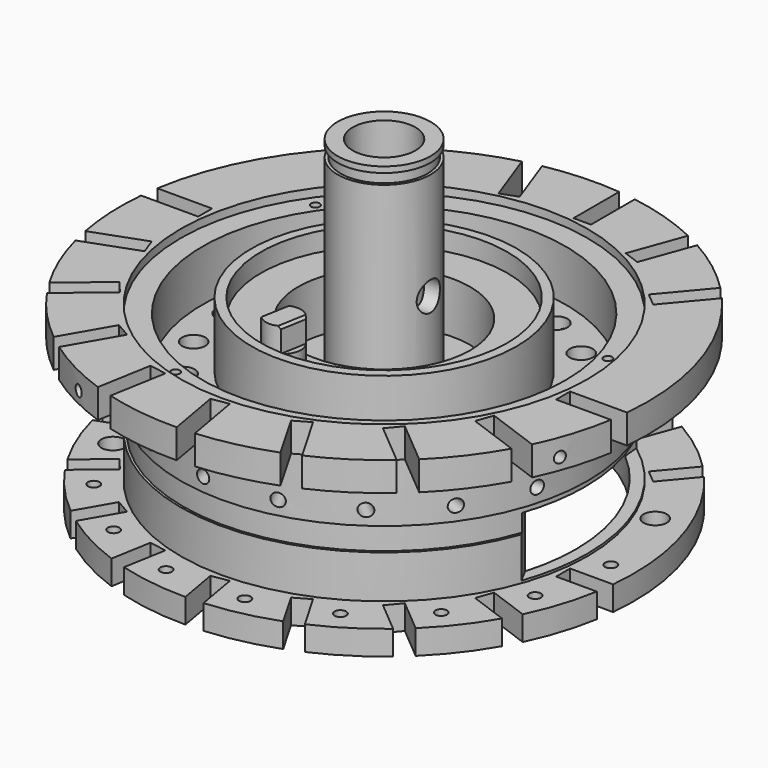
from build123d import *

# Parameters (mm, degrees)
F2_R        = 1
F3_DEPTH    = 16
F4_COUNT    = 10
F4_ANGLE    = 180
F5_COUNT    = 2
F5_ANGLE    = 50
F6_COUNT    = 5
F6_ANGLE    = 80
F7_ANGLE    = 20
F10_W       = 10
F10_H       = 0.55
F12_COUNT   = 10
F12_ANGLE   = 180
F13_COUNT   = 2
F13_ANGLE   = 50
F14_COUNT   = 5
F14_ANGLE   = 80
F16_R       = 1
F17_DEPTH   = 25
F18_R       = 1.5
F18_R_2     = 1.25
F19_DEPTH   = 1.2
F20_R       = 0.75
F21_DEPTH   = 2.1
F23_DEPTH   = 2.1
F24_SIZE2   = 0.1443375673
F24_SIZE    = 0.25
F24_2_SIZE2 = 0.1443375673
F24_2_SIZE  = 0.25
F25_R       = 0.375
F26_DEPTH   = 5
F31_COUNT   = 2
F31_ANGLE   = 96
F32_COUNT   = 2
F32_ANGLE   = 84
F34_R       = 1.25
F35_DEPTH   = 5
F36_R       = 0.5
F37_DEPTH   = 2.5
F38_R       = 1
F39_DEPTH   = 2.5
F42_DEPTH   = 5


with BuildPart() as f1:
    # F0 (on Front) → F1 (revolve)
    with BuildSketch(Plane.XZ):
        Polygon((4, 20.1), (4, 20.6), (2.7, 20.6), (2.7, 15.6), (2.75, 15.6), (2.75, 5.6), (2.7, 5.6), (2.7, 1), (4.5, 1), (4.5, 0), (6.5, 0), (6.5, 0.3), (16.5, 0.3), (16.5, -7.4), (21.5, -7.4), (21.5, -5.3), (17.5, -5.3), (17.5, -1.6), (17.3, -1.6), (17.3, 0.4), (17.5, 0.4), (17.5, 5.6), (22.7, 5.6), (22.7, 8.1), (17.5, 8.1), (17.5, 7.4), (15.6, 7.4), (15.6, 3), (11.4, 3), (11.4, 8.6), (10.6, 8.6), (10.6, 7), (7.4, 7), (7.4, 2.6), (4, 2.6), (4, 19.2), (3.75, 19.2), (3.75, 20.1), align=None)
    revolve(axis=Axis((0, 0, 10.3), (0, 0, 1)))


with BuildPart() as f3:
    # F2 (on face) → F3 (new body)
    with BuildSketch(Plane.XY.offset(8.1)):
        with Locations((12.6858503806, -4.6172719349)):
            Circle(F2_R)
    extrude(amount=-F3_DEPTH)


with BuildPart() as f3b:
    # F2 (on face) → F3, piece 2 (new body)
    with BuildSketch(Plane.XY.offset(8.1)):
        with BuildLine():
            ThreePointArc((22.4078803103, -3.63), (22.5163582127, -2.8815990067), (22.5998473446, -2.13))
            Line((22.5998473446, -2.13), (17.6970836072, -2.13))
            Line((17.6970836072, -2.13), (17.6970836072, -3.63))
            Line((17.6970836072, -3.63), (22.4078803103, -3.63))
        make_face()
    extrude(amount=-F3_DEPTH)


with BuildPart() as f4_1:
    # F4: instance of F3b
    add(f3b.part.rotate(Axis((0, 0, 10.3), (0, 0, -1)), 1 * F4_ANGLE / (F4_COUNT - 1)))


with BuildPart() as f4_2:
    # F4: instance of F3b
    add(f3b.part.rotate(Axis((0, 0, 10.3), (0, 0, -1)), 2 * F4_ANGLE / (F4_COUNT - 1)))


with BuildPart() as f4_3:
    # F4: instance of F3b
    add(f3b.part.rotate(Axis((0, 0, 10.3), (0, 0, -1)), 3 * F4_ANGLE / (F4_COUNT - 1)))


with BuildPart() as f4_4:
    # F4: instance of F3b
    add(f3b.part.rotate(Axis((0, 0, 10.3), (0, 0, -1)), 4 * F4_ANGLE / (F4_COUNT - 1)))


with BuildPart() as f4_5:
    # F4: instance of F3b
    add(f3b.part.rotate(Axis((0, 0, 10.3), (0, 0, -1)), 5 * F4_ANGLE / (F4_COUNT - 1)))


with BuildPart() as f4_6:
    # F4: instance of F3b
    add(f3b.part.rotate(Axis((0, 0, 10.3), (0, 0, -1)), 6 * F4_ANGLE / (F4_COUNT - 1)))


with BuildPart() as f4_7:
    # F4: instance of F3b
    add(f3b.part.rotate(Axis((0, 0, 10.3), (0, 0, -1)), 7 * F4_ANGLE / (F4_COUNT - 1)))


with BuildPart() as f4_8:
    # F4: instance of F3b
    add(f3b.part.rotate(Axis((0, 0, 10.3), (0, 0, -1)), 8 * F4_ANGLE / (F4_COUNT - 1)))


with BuildPart() as f4_9:
    # F4: instance of F3b
    add(f3b.part.rotate(Axis((0, 0, 10.3), (0, 0, -1)), 9 * F4_ANGLE / (F4_COUNT - 1)))


with BuildPart() as f4_10:
    # F4: instance of F3
    add(f3.part.rotate(Axis((0, 0, 10.3), (0, 0, -1)), 1 * F4_ANGLE / (F4_COUNT - 1)))


with BuildPart() as f4_11:
    # F4: instance of F3
    add(f3.part.rotate(Axis((0, 0, 10.3), (0, 0, -1)), 2 * F4_ANGLE / (F4_COUNT - 1)))


with BuildPart() as f4_12:
    # F4: instance of F3
    add(f3.part.rotate(Axis((0, 0, 10.3), (0, 0, -1)), 3 * F4_ANGLE / (F4_COUNT - 1)))


with BuildPart() as f4_13:
    # F4: instance of F3
    add(f3.part.rotate(Axis((0, 0, 10.3), (0, 0, -1)), 4 * F4_ANGLE / (F4_COUNT - 1)))


with BuildPart() as f4_14:
    # F4: instance of F3
    add(f3.part.rotate(Axis((0, 0, 10.3), (0, 0, -1)), 5 * F4_ANGLE / (F4_COUNT - 1)))


with BuildPart() as f4_15:
    # F4: instance of F3
    add(f3.part.rotate(Axis((0, 0, 10.3), (0, 0, -1)), 6 * F4_ANGLE / (F4_COUNT - 1)))


with BuildPart() as f4_16:
    # F4: instance of F3
    add(f3.part.rotate(Axis((0, 0, 10.3), (0, 0, -1)), 7 * F4_ANGLE / (F4_COUNT - 1)))


with BuildPart() as f4_17:
    # F4: instance of F3
    add(f3.part.rotate(Axis((0, 0, 10.3), (0, 0, -1)), 8 * F4_ANGLE / (F4_COUNT - 1)))


with BuildPart() as f4_18:
    # F4: instance of F3
    add(f3.part.rotate(Axis((0, 0, 10.3), (0, 0, -1)), 9 * F4_ANGLE / (F4_COUNT - 1)))


with BuildPart() as f5_1:
    # F5: instance of F3b
    add(f3b.part.rotate(Axis((0, 0, 10.3), (0, 0, 1)), 1 * F5_ANGLE / (F5_COUNT - 1)))


with BuildPart() as f5_2:
    # F5: instance of F3
    add(f3.part.rotate(Axis((0, 0, 10.3), (0, 0, 1)), 1 * F5_ANGLE / (F5_COUNT - 1)))


with BuildPart() as f6_1:
    # F6: instance of F5_2
    add(f5_2.part.rotate(Axis((0, 0, 10.3), (0, 0, 1)), 1 * F6_ANGLE / (F6_COUNT - 1)))


with BuildPart() as f6_2:
    # F6: instance of F5_2
    add(f5_2.part.rotate(Axis((0, 0, 10.3), (0, 0, 1)), 2 * F6_ANGLE / (F6_COUNT - 1)))


with BuildPart() as f6_3:
    # F6: instance of F5_2
    add(f5_2.part.rotate(Axis((0, 0, 10.3), (0, 0, 1)), 3 * F6_ANGLE / (F6_COUNT - 1)))


with BuildPart() as f6_4:
    # F6: instance of F5_2
    add(f5_2.part.rotate(Axis((0, 0, 10.3), (0, 0, 1)), 4 * F6_ANGLE / (F6_COUNT - 1)))


with BuildPart() as f6_5:
    # F6: instance of F5_1
    add(f5_1.part.rotate(Axis((0, 0, 10.3), (0, 0, 1)), 1 * F6_ANGLE / (F6_COUNT - 1)))


with BuildPart() as f6_6:
    # F6: instance of F5_1
    add(f5_1.part.rotate(Axis((0, 0, 10.3), (0, 0, 1)), 2 * F6_ANGLE / (F6_COUNT - 1)))


with BuildPart() as f6_7:
    # F6: instance of F5_1
    add(f5_1.part.rotate(Axis((0, 0, 10.3), (0, 0, 1)), 3 * F6_ANGLE / (F6_COUNT - 1)))


with BuildPart() as f6_8:
    # F6: instance of F5_1
    add(f5_1.part.rotate(Axis((0, 0, 10.3), (0, 0, 1)), 4 * F6_ANGLE / (F6_COUNT - 1)))


with BuildPart() as f7_1:
    # F7: copy of F6_4
    add(f6_4.part.rotate(Axis((0, 0, 10.3), (0, 0, 1)), F7_ANGLE))


with BuildPart() as f1_1:
    add(f1.part)

    # F8: cut F3b, F3, F4_1, F4_10, F4_2, F4_11, F4_3, F4_12, F4_4, F4_13, F4_5, F4_14, F4_6, F4_15, F4_7, F4_16, F4_8, F4_17, F4_9, F4_18, F5_1, F5_2, F6_5, F6_1, F6_6, F6_2, F6_7, F6_3, F6_8, F6_4, F7_1
    add(f3b.part, mode=Mode.SUBTRACT)
    add(f3.part, mode=Mode.SUBTRACT)
    add(f4_1.part, mode=Mode.SUBTRACT)
    add(f4_10.part, mode=Mode.SUBTRACT)
    add(f4_2.part, mode=Mode.SUBTRACT)
    add(f4_11.part, mode=Mode.SUBTRACT)
    add(f4_3.part, mode=Mode.SUBTRACT)
    add(f4_12.part, mode=Mode.SUBTRACT)
    add(f4_4.part, mode=Mode.SUBTRACT)
    add(f4_13.part, mode=Mode.SUBTRACT)
    add(f4_5.part, mode=Mode.SUBTRACT)
    add(f4_14.part, mode=Mode.SUBTRACT)
    add(f4_6.part, mode=Mode.SUBTRACT)
    add(f4_15.part, mode=Mode.SUBTRACT)
    add(f4_7.part, mode=Mode.SUBTRACT)
    add(f4_16.part, mode=Mode.SUBTRACT)
    add(f4_8.part, mode=Mode.SUBTRACT)
    add(f4_17.part, mode=Mode.SUBTRACT)
    add(f4_9.part, mode=Mode.SUBTRACT)
    add(f4_18.part, mode=Mode.SUBTRACT)
    add(f5_1.part, mode=Mode.SUBTRACT)
    add(f5_2.part, mode=Mode.SUBTRACT)
    add(f6_5.part, mode=Mode.SUBTRACT)
    add(f6_1.part, mode=Mode.SUBTRACT)
    add(f6_6.part, mode=Mode.SUBTRACT)
    add(f6_2.part, mode=Mode.SUBTRACT)
    add(f6_7.part, mode=Mode.SUBTRACT)
    add(f6_3.part, mode=Mode.SUBTRACT)
    add(f6_8.part, mode=Mode.SUBTRACT)
    add(f6_4.part, mode=Mode.SUBTRACT)
    add(f7_1.part, mode=Mode.SUBTRACT)


with BuildPart() as f11:
    # F10 (on offset) → F11 (revolve)
    with BuildSketch(Plane.XY.offset(1.6)):
        with Locations((18.5292594557, -4.355)):
            Rectangle(F10_W, F10_H)
    revolve(axis=Axis((18.5292594557, -4.63, 1.6), (1, 0, 0)))


with BuildPart() as f12_1:
    # F12: instance of F11
    add(f11.part.rotate(Axis((0, 0, 10.3), (0, 0, -1)), 1 * F12_ANGLE / (F12_COUNT - 1)))


with BuildPart() as f12_2:
    # F12: instance of F11
    add(f11.part.rotate(Axis((0, 0, 10.3), (0, 0, -1)), 2 * F12_ANGLE / (F12_COUNT - 1)))


with BuildPart() as f12_3:
    # F12: instance of F11
    add(f11.part.rotate(Axis((0, 0, 10.3), (0, 0, -1)), 3 * F12_ANGLE / (F12_COUNT - 1)))


with BuildPart() as f12_4:
    # F12: instance of F11
    add(f11.part.rotate(Axis((0, 0, 10.3), (0, 0, -1)), 4 * F12_ANGLE / (F12_COUNT - 1)))


with BuildPart() as f12_5:
    # F12: instance of F11
    add(f11.part.rotate(Axis((0, 0, 10.3), (0, 0, -1)), 5 * F12_ANGLE / (F12_COUNT - 1)))


with BuildPart() as f12_6:
    # F12: instance of F11
    add(f11.part.rotate(Axis((0, 0, 10.3), (0, 0, -1)), 6 * F12_ANGLE / (F12_COUNT - 1)))


with BuildPart() as f12_7:
    # F12: instance of F11
    add(f11.part.rotate(Axis((0, 0, 10.3), (0, 0, -1)), 7 * F12_ANGLE / (F12_COUNT - 1)))


with BuildPart() as f12_8:
    # F12: instance of F11
    add(f11.part.rotate(Axis((0, 0, 10.3), (0, 0, -1)), 8 * F12_ANGLE / (F12_COUNT - 1)))


with BuildPart() as f12_9:
    # F12: instance of F11
    add(f11.part.rotate(Axis((0, 0, 10.3), (0, 0, -1)), 9 * F12_ANGLE / (F12_COUNT - 1)))


with BuildPart() as f13_1:
    # F13: instance of F11
    add(f11.part.rotate(Axis((0, 0, 10.3), (0, 0, 1)), 1 * F13_ANGLE / (F13_COUNT - 1)))


with BuildPart() as f14_1:
    # F14: instance of F13_1
    add(f13_1.part.rotate(Axis((0, 0, 10.3), (0, 0, 1)), 1 * F14_ANGLE / (F14_COUNT - 1)))


with BuildPart() as f14_2:
    # F14: instance of F13_1
    add(f13_1.part.rotate(Axis((0, 0, 10.3), (0, 0, 1)), 2 * F14_ANGLE / (F14_COUNT - 1)))


with BuildPart() as f14_3:
    # F14: instance of F13_1
    add(f13_1.part.rotate(Axis((0, 0, 10.3), (0, 0, 1)), 3 * F14_ANGLE / (F14_COUNT - 1)))


with BuildPart() as f14_4:
    # F14: instance of F13_1
    add(f13_1.part.rotate(Axis((0, 0, 10.3), (0, 0, 1)), 4 * F14_ANGLE / (F14_COUNT - 1)))


with BuildPart() as f1_2:
    add(f1_1.part)

    # F15: cut F11, F12_1, F12_2, F12_3, F12_4, F12_5, F12_6, F12_7, F12_8, F12_9, F13_1, F14_1, F14_2, F14_3, F14_4
    add(f11.part, mode=Mode.SUBTRACT)
    add(f12_1.part, mode=Mode.SUBTRACT)
    add(f12_2.part, mode=Mode.SUBTRACT)
    add(f12_3.part, mode=Mode.SUBTRACT)
    add(f12_4.part, mode=Mode.SUBTRACT)
    add(f12_5.part, mode=Mode.SUBTRACT)
    add(f12_6.part, mode=Mode.SUBTRACT)
    add(f12_7.part, mode=Mode.SUBTRACT)
    add(f12_8.part, mode=Mode.SUBTRACT)
    add(f12_9.part, mode=Mode.SUBTRACT)
    add(f13_1.part, mode=Mode.SUBTRACT)
    add(f14_1.part, mode=Mode.SUBTRACT)
    add(f14_2.part, mode=Mode.SUBTRACT)
    add(f14_3.part, mode=Mode.SUBTRACT)
    add(f14_4.part, mode=Mode.SUBTRACT)

    # F16 (on face) → F17 (cut)
    with BuildSketch(Plane.XY.offset(3)):
        with Locations((13.5, 0)):
            Circle(F16_R)
    extrude(amount=-F17_DEPTH, mode=Mode.SUBTRACT)

    # F18 (on face) → F19 (join)
    with BuildSketch(Plane.XY.offset(7)):
        with Locations((-1.562833599, -8.8632697771)):
            Circle(F18_R)
        with Locations((-5.7850884872, 6.8943999881)):
            Circle(F18_R_2)
    extrude(amount=F19_DEPTH)

    # F20 (on face) → F21 (join)
    with BuildSketch(Plane.XY.offset(8.2)):
        with Locations((-5.7850884872, 6.8943999881)):
            Circle(F20_R)
    extrude(amount=F21_DEPTH)

    # F22 (on face) → F23 (join)
    with BuildSketch(Plane.XY.offset(8.2)):
        with BuildLine():
            ThreePointArc((-0.3838812813, -7.9358694145), (-1.3023613325, -7.3860581476), (-2.3534967873, -7.5885730592))
            Line((-2.3534967873, -7.5885730592), (-2.7417859167, -9.7906701397))
            ThreePointArc((-2.7417859167, -9.7906701397), (-1.8233058655, -10.3404814066), (-0.7721704107, -10.137966495))
            Line((-0.7721704107, -10.137966495), (-0.3838812813, -7.9358694145))
        make_face()
    extrude(amount=F23_DEPTH)

    # F24
    f24_edges = [f1_2.edges().sort_by_distance(p)[0] for p in [
        (-2.547641, -8.689622, 10.3),
    ]]
    f24_side = f1_2.faces().sort_by_distance((-2.547641, -8.689622, 9.25))[0]
    chamfer(f24_edges, length=F24_SIZE, length2=F24_SIZE2, reference=f24_side)

    # F24#2
    f24_2_edges = [f1_2.edges().sort_by_distance(p)[0] for p in [
        (-0.578026, -9.036918, 10.3),
    ]]
    f24_2_side = f1_2.faces().sort_by_distance((-0.578026, -9.036918, 9.25))[0]
    chamfer(f24_2_edges, length=F24_2_SIZE, length2=F24_2_SIZE2, reference=f24_2_side)


with BuildPart() as f26:
    # F25 (on face) → F26 (new body)
    with BuildSketch(Plane.XY.offset(7.4)):
        with Locations((15.8411835511, 4.2446323397)):
            Circle(F25_R)
    extrude(amount=-F26_DEPTH)


with BuildPart() as f26b:
    # F25 (on face) → F26, piece 2 (new body)
    with BuildSketch(Plane.XY.offset(7.4)):
        with Locations((-5.6091303505, -15.4109589809)):
            Circle(F25_R)
    extrude(amount=-F26_DEPTH)


with BuildPart() as f26c:
    # F25 (on face) → F26, piece 3 (new body)
    with BuildSketch(Plane.XY.offset(7.4)):
        with Locations((-13.4340935263, 9.4066535562)):
            Circle(F25_R)
    extrude(amount=-F26_DEPTH)


with BuildPart() as f1_3:
    add(f1_2.part)

    # F27: cut F26, F26c, F26b
    add(f26.part, mode=Mode.SUBTRACT)
    add(f26c.part, mode=Mode.SUBTRACT)
    add(f26b.part, mode=Mode.SUBTRACT)


with BuildPart() as f30:
    # F29 (on offset) → F30 (revolve)
    with BuildSketch(Plane.XY.offset(6.6)):
        Polygon((17.1024056983, -6.2247666085), (21.6129302781, -7.8664632965), (21.7753898462, -7.4201093016), (17.2648652664, -5.7784126137), align=None)
    revolve(axis=Axis((10.806465139, -3.9332316482, 6.6), (0.9396926208, -0.3420201433, 0)))


with BuildPart() as f31_1:
    # F31: instance of F30
    add(f30.part.rotate(Axis((0, 0, 10.3), (0, 0, -1)), 1 * F31_ANGLE / (F31_COUNT - 1)))


with BuildPart() as f32_1:
    # F32: instance of F31_1
    add(f31_1.part.rotate(Axis((0, 0, 10.3), (0, 0, -1)), 1 * F32_ANGLE / (F32_COUNT - 1)))


with BuildPart() as f1_4:
    add(f1_3.part)

    # F33: cut F30, F31_1, F32_1
    add(f30.part, mode=Mode.SUBTRACT)
    add(f31_1.part, mode=Mode.SUBTRACT)
    add(f32_1.part, mode=Mode.SUBTRACT)

    # F34 (on Right) → F35 (cut)
    with BuildSketch(Plane.YZ):
        with Locations((0, 10)):
            Circle(F34_R)
    extrude(amount=F35_DEPTH, mode=Mode.SUBTRACT)

    # F36 (on face) → F37 (cut)
    with BuildSketch(Plane.XY.offset(-5.3)):
        with Locations((19.5, 0)):
            Circle(F36_R)
        with Locations((18.3240061053, -6.6693927949)):
            Circle(F36_R)
        with Locations((14.9378666408, -12.5343583889)):
            Circle(F36_R)
        with Locations((9.75, -16.8874953738)):
            Circle(F36_R)
        with Locations((3.3861394645, -19.2037511837)):
            Circle(F36_R)
        with Locations((-3.3861394645, -19.2037511837)):
            Circle(F36_R)
        with Locations((-9.75, -16.8874953738)):
            Circle(F36_R)
        with Locations((-14.9378666408, -12.5343583889)):
            Circle(F36_R)
    extrude(amount=-F37_DEPTH, mode=Mode.SUBTRACT)

    # F38 (on face) → F39 (cut)
    with BuildSketch(Plane.XY.offset(-5.3)):
        with Locations((17.6164932368, 7.1175252749)):
            Circle(F38_R)
        with Locations((5.8713228931, 18.0700738096)):
            Circle(F38_R)
        with Locations((-12.7134815208, 14.1197516841)):
            Circle(F38_R)
        with Locations((-17.6164932368, -7.1175252749)):
            Circle(F38_R)
    extrude(amount=-F39_DEPTH, mode=Mode.SUBTRACT)

    # F41 (on offset) → F42 (cut)
    with BuildSketch(Plane.XY.offset(-5.1)):
        with BuildLine():
            ThreePointArc((10.478491394, 14.0678204939), (20.2062135998, 48.0970412336), (50.0253039686, 67.1610988564))
            ThreePointArc((50.0253039686, 67.1610988564), (-39.900024886, 92.8674946934), (10.478491394, 14.0678204939))
        make_face()
        with BuildLine():
            ThreePointArc((50.0253039686, 67.1610988564), (50.1553909962, 65.0821997292), (50.1987784384, 62.999686405))
            ThreePointArc((50.1987784384, 62.999686405), (39.0187838981, 31.4876700286), (10.478491394, 14.0678204939))
            ThreePointArc((10.478491394, 14.0678204939), (62.3875302484, -31.7273796126), (110.3050169242, 18.2292329452))
            ThreePointArc((110.3050169242, 18.2292329452), (91.8170333007, 57.0492384049), (50.0253039686, 67.1610988564))
        make_face()
        with BuildLine():
            ThreePointArc((10.478491394, 14.0678204939), (39.0187838981, 31.4876700286), (50.1987784384, 62.999686405))
            ThreePointArc((50.1987784384, 62.999686405), (50.1553909962, 65.0821997292), (50.0253039686, 67.1610988564))
            ThreePointArc((50.0253039686, 67.1610988564), (20.2062135998, 48.0970412336), (10.478491394, 14.0678204939))
        make_face()
    extrude(amount=F42_DEPTH, mode=Mode.SUBTRACT)


solid = f1_4.part
